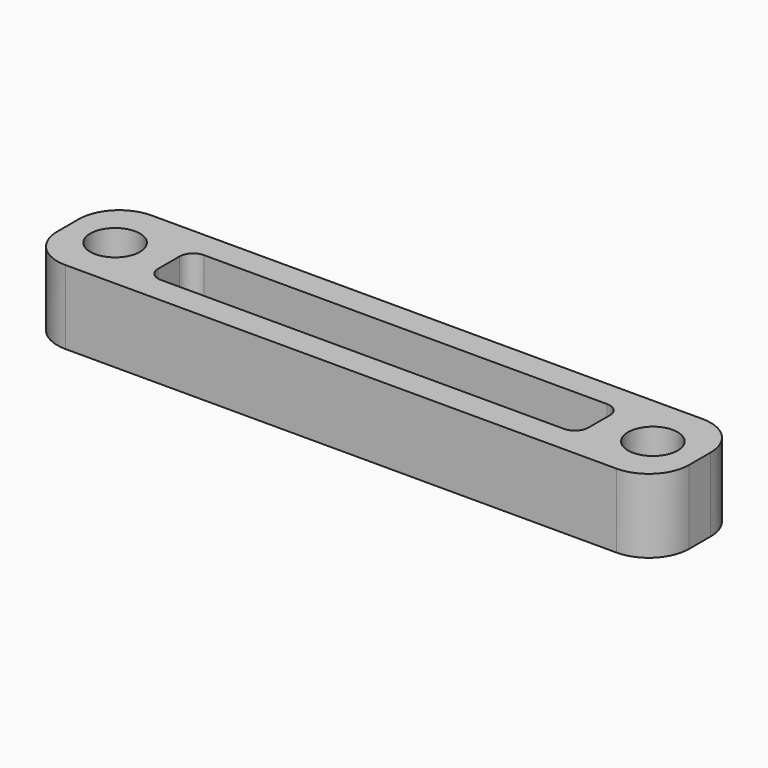
from build123d import *

# Parameters (mm, degrees)
F0_W     = 47
F0_H     = 8
F0_R     = 1.85
F0_W_2   = 32
F0_H_2   = 4
F1_DEPTH = 5.5
F2_R     = 3
F3_R     = 1


with BuildPart() as f1:
    # F0 (on Top) → F1 (new body)
    with BuildSketch(Plane.XY):
        Rectangle(F0_W, F0_H)
        with Locations((-20, 0)):
            Circle(F0_R, mode=Mode.SUBTRACT)
        Rectangle(F0_W_2, F0_H_2, mode=Mode.SUBTRACT)
        with Locations((20, 0)):
            Circle(F0_R, mode=Mode.SUBTRACT)
    extrude(amount=F1_DEPTH)

    # F2
    f2_edges = [f1.edges().sort_by_distance(p)[0] for p in [
        (23.5, -4, 2.75),
        (23.5, 4, 2.75),
        (-23.5, -4, 2.75),
        (-23.5, 4, 2.75),
    ]]
    fillet(f2_edges, radius=F2_R)

    # F3
    f3_edges = [f1.edges().sort_by_distance(p)[0] for p in [
        (-16, 2, 2.75),
        (16, 2, 2.75),
        (16, -2, 2.75),
        (-16, -2, 2.75),
    ]]
    fillet(f3_edges, radius=F3_R)


solid = f1.part
